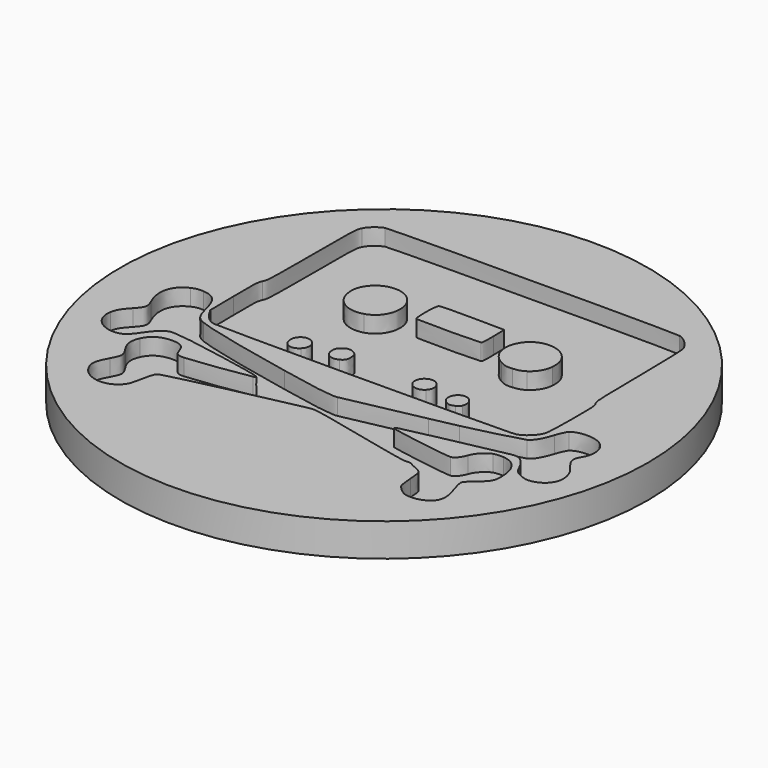
from build123d import *

# Parameters (mm, degrees)
SKETCH001_R  = 20
PAD_DEPTH    = 2.5
POCKET_DEPTH = 1.25


with BuildPart() as part:
    # Sketch001 (on DatumPlane) → Pad (new body)
    with BuildSketch(Plane.XY):
        Circle(SKETCH001_R)
    extrude(amount=-PAD_DEPTH)

    # Sketch (on DatumPlane) → Pocket (cut)
    with BuildSketch(Plane.XY):
        with BuildLine():
            add(Edge.make_bspline(
                [(11.22194, -12.11628), (10.977253, -12.018913), (10.570853, -11.65146), (10.43962, -11.408467)],
                knots=[0, 0, 0, 0, 1, 1, 1, 1], degree=3))
            add(Edge.make_bspline(
                [(10.43962, -11.408467), (10.389667, -11.31618), (10.323627, -10.84374), (10.2923, -10.3586)],
                knots=[0, 0, 0, 0, 1, 1, 1, 1], degree=3))
            add(Edge.make_bspline(
                [(10.2923, -10.3586), (10.238113, -9.51532), (10.224567, -9.46706), (9.99004, -9.279947)],
                knots=[0, 0, 0, 0, 1, 1, 1, 1], degree=3))
            add(Edge.make_bspline(
                [(9.99004, -9.279947), (9.854573, -9.171573), (9.640367, -9.06066), (9.51506, -9.03272)],
                knots=[0, 0, 0, 0, 1, 1, 1, 1], degree=3))
            add(Edge.make_bspline(
                [(9.51506, -9.03272), (9.388907, -9.005627), (9.244127, -8.931967), (9.19248, -8.87016)],
                knots=[0, 0, 0, 0, 1, 1, 1, 1], degree=3))
            add(Edge.make_bspline(
                [(9.19248, -8.87016), (9.13152, -8.7965), (8.988433, -8.771947), (8.781, -8.79904)],
                knots=[0, 0, 0, 0, 1, 1, 1, 1], degree=3))
            add(Edge.make_bspline(
                [(8.781, -8.79904), (8.563407, -8.828673), (7.66594, -8.655107), (5.926887, -8.247013)],
                knots=[0, 0, 0, 0, 1, 1, 1, 1], degree=3))
            add(Edge.make_bspline(
                [(5.926887, -8.247013), (1.838333, -7.28774), (0.61744, -7.024427), (0.257607, -7.024427)],
                knots=[0, 0, 0, 0, 1, 1, 1, 1], degree=3))
            add(Edge.make_bspline(
                [(0.257607, -7.024427), (-0.203827, -7.025273), (-9.183573, -9.03272), (-9.665327, -9.24354)],
                knots=[0, 0, 0, 0, 1, 1, 1, 1], degree=3))
            add(Edge.make_bspline(
                [(-9.665327, -9.24354), (-9.863447, -9.3299), (-9.92864, -9.51278), (-10.163167, -10.643927)],
                knots=[0, 0, 0, 0, 1, 1, 1, 1], degree=3))
            add(Edge.make_bspline(
                [(-10.163167, -10.643927), (-10.2817, -11.21458), (-10.351973, -11.368673), (-10.612747, -11.629447)],
                knots=[0, 0, 0, 0, 1, 1, 1, 1], degree=3))
            add(Edge.make_bspline(
                [(-10.612747, -11.629447), (-11.472113, -12.488813), (-13.003733, -12.181473), (-13.515967, -11.04694)],
                knots=[0, 0, 0, 0, 1, 1, 1, 1], degree=3))
            add(Edge.make_bspline(
                [(-13.515967, -11.04694), (-13.72594, -10.580427), (-13.66498, -10.240913), (-13.222173, -9.415413)],
                knots=[0, 0, 0, 0, 1, 1, 1, 1], degree=3))
            add(Edge.make_bspline(
                [(-13.222173, -9.415413), (-12.82932, -8.68474), (-12.833553, -8.596687), (-13.28652, -7.895647)],
                knots=[0, 0, 0, 0, 1, 1, 1, 1], degree=3))
            add(Edge.make_bspline(
                [(-13.28652, -7.895647), (-13.635347, -7.355473), (-13.678527, -6.874567), (-13.425373, -6.326773)],
                knots=[0, 0, 0, 0, 1, 1, 1, 1], degree=3))
            add(Edge.make_bspline(
                [(-13.425373, -6.326773), (-13.124807, -5.675687), (-12.564313, -5.353107), (-11.73204, -5.353107)],
                knots=[0, 0, 0, 0, 1, 1, 1, 1], degree=3))
            add(Edge.make_bspline(
                [(-11.73204, -5.353107), (-11.124133, -5.353107), (-10.79224, -5.579167), (-10.636453, -6.099867)],
                knots=[0, 0, 0, 0, 1, 1, 1, 1], degree=3))
            add(Edge.make_bspline(
                [(-10.636453, -6.099867), (-10.501833, -6.550293), (-10.358747, -6.646813), (-9.845667, -6.63496)],
                knots=[0, 0, 0, 0, 1, 1, 1, 1], degree=3))
            add(Edge.make_bspline(
                [(-9.845667, -6.63496), (-9.2403, -6.621413), (-5.93322, -6.164213), (-5.12804, -5.98218)],
                knots=[0, 0, 0, 0, 1, 1, 1, 1], degree=3))
            add(Edge.make_bspline(
                [(-5.12804, -5.98218), (-4.642053, -5.87296), (-5.149207, -5.737493), (-8.251393, -5.1516)],
                knots=[0, 0, 0, 0, 1, 1, 1, 1], degree=3))
            add(Edge.make_bspline(
                [(-8.251393, -5.1516), (-10.66016, -4.696093), (-12.185007, -4.479347), (-12.52452, -4.542847)],
                knots=[0, 0, 0, 0, 1, 1, 1, 1], degree=3))
            add(Edge.make_bspline(
                [(-12.52452, -4.542847), (-12.924993, -4.6182), (-13.35256, -5.005973), (-13.83008, -5.727333)],
                knots=[0, 0, 0, 0, 1, 1, 1, 1], degree=3))
            add(Edge.make_bspline(
                [(-13.83008, -5.727333), (-14.305907, -6.447), (-14.63526, -6.661207), (-15.24232, -6.646813)],
                knots=[0, 0, 0, 0, 1, 1, 1, 1], degree=3))
            add(Edge.make_bspline(
                [(-15.24232, -6.646813), (-16.302347, -6.62226), (-17.079587, -5.75612), (-16.897553, -4.802773)],
                knots=[0, 0, 0, 0, 1, 1, 1, 1], degree=3))
            add(Edge.make_bspline(
                [(-16.897553, -4.802773), (-16.808653, -4.34134), (-16.69266, -4.14576), (-16.15926, -3.56664)],
                knots=[0, 0, 0, 0, 1, 1, 1, 1], degree=3))
            add(Edge.make_bspline(
                [(-16.15926, -3.56664), (-15.645333, -3.006147), (-15.60554, -2.823267), (-15.870547, -2.23822)],
                knots=[0, 0, 0, 0, 1, 1, 1, 1], degree=3))
            add(Edge.make_bspline(
                [(-15.870547, -2.23822), (-16.452207, -0.956367), (-16.186353, 0.072333), (-15.14326, 0.577793)],
                knots=[0, 0, 0, 0, 1, 1, 1, 1], degree=3))
            add(Edge.make_bspline(
                [(-15.14326, 0.577793), (-14.841847, 0.72342), (-14.654733, 0.754747), (-14.2568, 0.72596)],
                knots=[0, 0, 0, 0, 1, 1, 1, 1], degree=3))
            add(Edge.make_bspline(
                [(-14.2568, 0.72596), (-13.40844, 0.665), (-13.04268, 0.265373), (-12.744653, -0.924193)],
                knots=[0, 0, 0, 0, 1, 1, 1, 1], degree=3))
            add(Edge.make_bspline(
                [(-12.744653, -0.924193), (-12.498273, -1.903787), (-12.334867, -2.1544), (-11.788767, -2.389773)],
                knots=[0, 0, 0, 0, 1, 1, 1, 1], degree=3))
            add(Edge.make_bspline(
                [(-11.788767, -2.389773), (-10.996287, -2.730133), (-8.485073, -3.33296), (-4.187393, -4.2118)],
                knots=[0, 0, 0, 0, 1, 1, 1, 1], degree=3))
            add(Edge.make_bspline(
                [(-4.187393, -4.2118), (-1.195273, -4.82394), (-0.016713, -5.00682), (0.400693, -4.922153)],
                knots=[0, 0, 0, 0, 1, 1, 1, 1], degree=3))
            add(Edge.make_bspline(
                [(0.400693, -4.922153), (3.661207, -4.264293), (4.85162, -4.019607), (6.311273, -3.705493)],
                knots=[0, 0, 0, 0, 1, 1, 1, 1], degree=3))
            add(Edge.make_bspline(
                [(6.311273, -3.705493), (7.266313, -3.5006), (8.180713, -3.30756), (8.343273, -3.276233)],
                knots=[0, 0, 0, 0, 1, 1, 1, 1], degree=3))
            add(Edge.make_bspline(
                [(8.343273, -3.276233), (9.178933, -3.117907), (12.348853, -2.295793), (12.57322, -2.1798)],
                knots=[0, 0, 0, 0, 1, 1, 1, 1], degree=3))
            add(Edge.make_bspline(
                [(12.57322, -2.1798), (12.916967, -2.002), (13.198907, -1.53718), (13.46984, -0.699827)],
                knots=[0, 0, 0, 0, 1, 1, 1, 1], degree=3))
            add(Edge.make_bspline(
                [(13.46984, -0.699827), (13.59176, -0.321367), (13.772947, 0.063867), (13.872007, 0.155307)],
                knots=[0, 0, 0, 0, 1, 1, 1, 1], degree=3))
            add(Edge.make_bspline(
                [(13.872007, 0.155307), (14.319893, 0.57356), (15.531473, 0.600653), (16.127527, 0.206107)],
                knots=[0, 0, 0, 0, 1, 1, 1, 1], degree=3))
            add(Edge.make_bspline(
                [(16.127527, 0.206107), (16.785387, -0.22908), (16.942867, -1.147713), (16.486513, -1.881773)],
                knots=[0, 0, 0, 0, 1, 1, 1, 1], degree=3))
            add(Edge.make_bspline(
                [(16.486513, -1.881773), (16.16732, -2.3957), (16.24098, -2.731827), (16.818407, -3.39138)],
                knots=[0, 0, 0, 0, 1, 1, 1, 1], degree=3))
            add(Edge.make_bspline(
                [(16.818407, -3.39138), (17.8361, -4.553853), (17.398373, -5.983873), (15.965813, -6.176067)],
                knots=[0, 0, 0, 0, 1, 1, 1, 1], degree=3))
            add(Edge.make_bspline(
                [(15.965813, -6.176067), (15.706733, -6.21078), (15.518773, -6.1676), (15.152167, -5.988107)],
                knots=[0, 0, 0, 0, 1, 1, 1, 1], degree=3))
            add(Edge.make_bspline(
                [(15.152167, -5.988107), (14.750847, -5.792527), (14.64586, -5.690927), (14.486687, -5.348027)],
                knots=[0, 0, 0, 0, 1, 1, 1, 1], degree=3))
            add(Edge.make_bspline(
                [(14.486687, -5.348027), (14.22168, -4.77568), (13.900793, -4.380287), (13.600227, -4.255827)],
                knots=[0, 0, 0, 0, 1, 1, 1, 1], degree=3))
            add(Edge.make_bspline(
                [(13.600227, -4.255827), (13.379247, -4.164387), (13.202293, -4.180473), (12.346313, -4.36928)],
                knots=[0, 0, 0, 0, 1, 1, 1, 1], degree=3))
            add(Edge.make_bspline(
                [(12.346313, -4.36928), (11.797673, -4.490353), (10.570007, -4.7452), (9.617507, -4.934853)],
                knots=[0, 0, 0, 0, 1, 1, 1, 1], degree=3))
            add(Edge.make_bspline(
                [(9.617507, -4.934853), (8.665007, -5.124507), (7.864907, -5.292147), (7.839507, -5.308233)],
                knots=[0, 0, 0, 0, 1, 1, 1, 1], degree=3))
            add(Edge.make_bspline(
                [(7.839507, -5.308233), (7.814107, -5.323473), (7.29764, -5.439467), (6.692273, -5.56562)],
                knots=[0, 0, 0, 0, 1, 1, 1, 1], degree=3))
            add(Edge.make_bspline(
                [(6.692273, -5.56562), (5.5044, -5.813693), (5.41296, -5.843327), (5.520487, -5.950853)],
                knots=[0, 0, 0, 0, 1, 1, 1, 1], degree=3))
            add(Edge.make_bspline(
                [(5.520487, -5.950853), (5.639867, -6.070233), (10.070473, -6.763653), (10.417607, -6.717087)],
                knots=[0, 0, 0, 0, 1, 1, 1, 1], degree=3))
            add(Edge.make_bspline(
                [(10.417607, -6.717087), (10.666527, -6.684067), (10.921373, -6.381807), (11.090707, -5.920373)],
                knots=[0, 0, 0, 0, 1, 1, 1, 1], degree=3))
            add(Edge.make_bspline(
                [(11.090707, -5.920373), (11.26512, -5.442007), (11.713007, -4.97634), (12.129567, -4.83918)],
                knots=[0, 0, 0, 0, 1, 1, 1, 1], degree=3))
            add(Edge.make_bspline(
                [(12.129567, -4.83918), (12.292973, -4.784993), (12.6291, -4.7579), (12.876327, -4.77822)],
                knots=[0, 0, 0, 0, 1, 1, 1, 1], degree=3))
            add(Edge.make_bspline(
                [(12.876327, -4.77822), (13.743313, -4.850187), (14.26486, -5.501273), (14.336827, -6.600247)],
                knots=[0, 0, 0, 0, 1, 1, 1, 1], degree=3))
            add(Edge.make_bspline(
                [(14.336827, -6.600247), (14.390167, -7.413047), (14.283487, -7.63826), (13.580753, -8.1996)],
                knots=[0, 0, 0, 0, 1, 1, 1, 1], degree=3))
            add(Edge.make_bspline(
                [(13.580753, -8.1996), (13.262407, -8.452753), (12.978773, -8.75078), (12.95168, -8.860847)],
                knots=[0, 0, 0, 0, 1, 1, 1, 1], degree=3))
            add(Edge.make_bspline(
                [(12.95168, -8.860847), (12.9212, -8.981073), (13.008407, -9.371387), (13.171813, -9.847213)],
                knots=[0, 0, 0, 0, 1, 1, 1, 1], degree=3))
            add(Edge.make_bspline(
                [(13.171813, -9.847213), (13.585833, -11.052867), (13.452907, -11.615053), (12.65958, -12.020607)],
                knots=[0, 0, 0, 0, 1, 1, 1, 1], degree=3))
            add(Edge.make_bspline(
                [(12.65958, -12.020607), (12.259107, -12.224653), (11.60548, -12.26868), (11.22194, -12.11628)],
                knots=[0, 0, 0, 0, 1, 1, 1, 1], degree=3))
        make_face()
        with BuildLine():
            add(Edge.make_bspline(
                [(-11.232507, -2.138313), (-11.614353, -2.020627), (-11.96318, -1.7226), (-12.20956, -1.304347)],
                knots=[0, 0, 0, 0, 1, 1, 1, 1], degree=3))
            add(Edge.make_bspline(
                [(-12.20956, -1.304347), (-12.442393, -0.908107)],
                knots=[0, 0, 5.428158, 5.428158], degree=1))
            add(Edge.make_bspline(
                [(-12.442393, -0.908107), (-12.46864, 1.333867)],
                knots=[0, 0, 26.481815, 26.481815], degree=1))
            add(Edge.make_bspline(
                [(-12.46864, 1.333867), (-12.493193, 3.409893), (-12.483033, 3.60124), (-12.33148, 3.9162)],
                knots=[0, 0, 0, 0, 1, 1, 1, 1], degree=3))
            add(Edge.make_bspline(
                [(-12.33148, 3.9162), (-12.175693, 4.23878), (-12.167227, 4.475), (-12.167227, 8.378133)],
                knots=[0, 0, 0, 0, 1, 1, 1, 1], degree=3))
            add(Edge.make_bspline(
                [(-12.167227, 8.378133), (-12.167227, 12.426893), (-12.16384, 12.50648), (-11.984347, 12.87732)],
                knots=[0, 0, 0, 0, 1, 1, 1, 1], degree=3))
            add(Edge.make_bspline(
                [(-11.984347, 12.87732), (-11.804853, 13.247313), (-11.39168, 13.605453), (-10.953953, 13.769707)],
                knots=[0, 0, 0, 0, 1, 1, 1, 1], degree=3))
            add(Edge.make_bspline(
                [(-10.953953, 13.769707), (-10.617827, 13.895013), (10.8511, 13.988993), (11.304913, 13.866227)],
                knots=[0, 0, 0, 0, 1, 1, 1, 1], degree=3))
            add(Edge.make_bspline(
                [(11.304913, 13.866227), (11.751107, 13.746847), (12.35732, 13.157567), (12.49448, 12.710527)],
                knots=[0, 0, 0, 0, 1, 1, 1, 1], degree=3))
            add(Edge.make_bspline(
                [(12.49448, 12.710527), (12.56306, 12.487853), (12.607087, 11.10186), (12.63418, 8.32056)],
                knots=[0, 0, 0, 0, 1, 1, 1, 1], degree=3))
            add(Edge.make_bspline(
                [(12.63418, 8.32056), (12.67228, 4.49278), (12.683287, 4.24132), (12.83738, 3.991553)],
                knots=[0, 0, 0, 0, 1, 1, 1, 1], degree=3))
            add(Edge.make_bspline(
                [(12.83738, 3.991553), (12.988087, 3.74856), (13.000787, 3.557213), (12.9974, 1.620887)],
                knots=[0, 0, 0, 0, 1, 1, 1, 1], degree=3))
            add(Edge.make_bspline(
                [(12.9974, 1.620887), (12.99486, 0.2586), (12.957607, -0.604153), (12.89326, -0.82344)],
                knots=[0, 0, 0, 0, 1, 1, 1, 1], degree=3))
            add(Edge.make_bspline(
                [(12.89326, -0.82344), (12.742553, -1.333133), (12.11856, -1.91818), (11.59786, -2.038407)],
                knots=[0, 0, 0, 0, 1, 1, 1, 1], degree=3))
            add(Edge.make_bspline(
                [(11.59786, -2.038407), (11.09494, -2.1544), (-10.86844, -2.25092), (-11.232507, -2.138313)],
                knots=[0, 0, 0, 0, 1, 1, 1, 1], degree=3))
        make_face()
        with BuildLine():
            add(Edge.make_bspline(
                [(-5.19662, -1.380547), (-4.758047, -0.941973), (-4.97564, -0.256173), (-5.59032, -0.138487)],
                knots=[0, 0, 0, 0, 1, 1, 1, 1], degree=3))
            add(Edge.make_bspline(
                [(-5.59032, -0.138487), (-5.980633, -0.06398), (-6.388727, -0.431433), (-6.388727, -0.857307)],
                knots=[0, 0, 0, 0, 1, 1, 1, 1], degree=3))
            add(Edge.make_bspline(
                [(-6.388727, -0.857307), (-6.388727, -1.556653), (-5.682607, -1.866533), (-5.19662, -1.380547)],
                knots=[0, 0, 0, 0, 1, 1, 1, 1], degree=3))
        make_face(mode=Mode.SUBTRACT)
        with BuildLine():
            add(Edge.make_bspline(
                [(6.559347, -1.419493), (6.69058, -1.350913), (6.82266, -1.234073), (6.851447, -1.15872)],
                knots=[0, 0, 0, 0, 1, 1, 1, 1], degree=3))
            add(Edge.make_bspline(
                [(6.851447, -1.15872), (7.13508, -0.418733), (6.339213, 0.21796), (5.770253, -0.294273)],
                knots=[0, 0, 0, 0, 1, 1, 1, 1], degree=3))
            add(Edge.make_bspline(
                [(5.770253, -0.294273), (5.414653, -0.614313), (5.465453, -1.19174), (5.86762, -1.41018)],
                knots=[0, 0, 0, 0, 1, 1, 1, 1], degree=3))
            add(Edge.make_bspline(
                [(5.86762, -1.41018), (6.16226, -1.5702), (6.26386, -1.571893), (6.559347, -1.419493)],
                knots=[0, 0, 0, 0, 1, 1, 1, 1], degree=3))
        make_face(mode=Mode.SUBTRACT)
        with BuildLine():
            add(Edge.make_bspline(
                [(-2.499987, -1.080827), (-2.233287, -0.94282), (-2.155393, -0.79804), (-2.155393, -0.44244)],
                knots=[0, 0, 0, 0, 1, 1, 1, 1], degree=3))
            add(Edge.make_bspline(
                [(-2.155393, -0.44244), (-2.155393, -0.08684), (-2.233287, 0.05794), (-2.499987, 0.195947)],
                knots=[0, 0, 0, 0, 1, 1, 1, 1], degree=3))
            add(Edge.make_bspline(
                [(-2.499987, 0.195947), (-2.84204, 0.3729), (-3.03762, 0.35004), (-3.333953, 0.100273)],
                knots=[0, 0, 0, 0, 1, 1, 1, 1], degree=3))
            add(Edge.make_bspline(
                [(-3.333953, 0.100273), (-3.539693, -0.072447), (-3.59388, -0.185053), (-3.592187, -0.428893)],
                knots=[0, 0, 0, 0, 1, 1, 1, 1], degree=3))
            add(Edge.make_bspline(
                [(-3.592187, -0.428893), (-3.58626, -1.05204), (-3.056247, -1.367847), (-2.499987, -1.080827)],
                knots=[0, 0, 0, 0, 1, 1, 1, 1], degree=3))
        make_face(mode=Mode.SUBTRACT)
        with BuildLine():
            add(Edge.make_bspline(
                [(3.902507, -0.91234), (4.474007, -0.339993), (3.780587, 0.600653), (3.066847, 0.221347)],
                knots=[0, 0, 0, 0, 1, 1, 1, 1], degree=3))
            add(Edge.make_bspline(
                [(3.066847, 0.221347), (2.391207, -0.139333), (2.627427, -1.119773), (3.390273, -1.119773)],
                knots=[0, 0, 0, 0, 1, 1, 1, 1], degree=3))
            add(Edge.make_bspline(
                [(3.390273, -1.119773), (3.600247, -1.119773), (3.758573, -1.055427), (3.902507, -0.91234)],
                knots=[0, 0, 0, 0, 1, 1, 1, 1], degree=3))
        make_face(mode=Mode.SUBTRACT)
        with BuildLine():
            add(Edge.make_bspline(
                [(-5.027287, 4.395413), (-3.499053, 4.85346), (-3.2713, 7.00738), (-4.664913, 7.823567)],
                knots=[0, 0, 0, 0, 1, 1, 1, 1], degree=3))
            add(Edge.make_bspline(
                [(-4.664913, 7.823567), (-5.418447, 8.265527), (-6.459847, 8.085187), (-7.026267, 7.41378)],
                knots=[0, 0, 0, 0, 1, 1, 1, 1], degree=3))
            add(Edge.make_bspline(
                [(-7.026267, 7.41378), (-7.38864, 6.98452), (-7.511407, 6.61114), (-7.47246, 6.06504)],
                knots=[0, 0, 0, 0, 1, 1, 1, 1], degree=3))
            add(Edge.make_bspline(
                [(-7.47246, 6.06504), (-7.382713, 4.823827), (-6.22786, 4.03558), (-5.027287, 4.395413)],
                knots=[0, 0, 0, 0, 1, 1, 1, 1], degree=3))
        make_face(mode=Mode.SUBTRACT)
        with BuildLine():
            add(Edge.make_bspline(
                [(7.074967, 4.671427), (7.575347, 5.001627), (7.860673, 5.486767), (7.903853, 6.0752)],
                knots=[0, 0, 0, 0, 1, 1, 1, 1], degree=3))
            add(Edge.make_bspline(
                [(7.903853, 6.0752), (7.947033, 6.67464), (7.817493, 7.095433), (7.466973, 7.494213)],
                knots=[0, 0, 0, 0, 1, 1, 1, 1], degree=3))
            add(Edge.make_bspline(
                [(7.466973, 7.494213), (6.75154, 8.309553), (5.34692, 8.316327), (4.665353, 7.506913)],
                knots=[0, 0, 0, 0, 1, 1, 1, 1], degree=3))
            add(Edge.make_bspline(
                [(4.665353, 7.506913), (3.854247, 6.5451), (4.109093, 5.190433), (5.210607, 4.61216)],
                knots=[0, 0, 0, 0, 1, 1, 1, 1], degree=3))
            add(Edge.make_bspline(
                [(5.210607, 4.61216), (5.619547, 4.397107), (5.74062, 4.372553), (6.20798, 4.408113)],
                knots=[0, 0, 0, 0, 1, 1, 1, 1], degree=3))
            add(Edge.make_bspline(
                [(6.20798, 4.408113), (6.59152, 4.437747), (6.83282, 4.51056), (7.074967, 4.671427)],
                knots=[0, 0, 0, 0, 1, 1, 1, 1], degree=3))
        make_face(mode=Mode.SUBTRACT)
        with BuildLine():
            add(Edge.make_bspline(
                [(2.65198, 5.86946), (2.734107, 5.895707), (2.754427, 6.15648), (2.736647, 6.943033)],
                knots=[0, 0, 0, 0, 1, 1, 1, 1], degree=3))
            add(Edge.make_bspline(
                [(2.736647, 6.943033), (2.71294, 7.981893)],
                knots=[0, 0, 12.273194, 12.273194], degree=1))
            add(Edge.make_bspline(
                [(2.71294, 7.981893), (0.3101, 8.004753)],
                knots=[0, 0, 28.381284, 28.381284], degree=1))
            add(Edge.make_bspline(
                [(0.3101, 8.004753), (-1.3917, 8.019993), (-2.126607, 7.998827), (-2.208733, 7.930247)],
                knots=[0, 0, 0, 0, 1, 1, 1, 1], degree=3))
            add(Edge.make_bspline(
                [(-2.208733, 7.930247), (-2.352667, 7.810867), (-2.375527, 5.992227), (-2.234133, 5.850833)],
                knots=[0, 0, 0, 0, 1, 1, 1, 1], degree=3))
            add(Edge.make_bspline(
                [(-2.234133, 5.850833), (-2.149467, 5.766167), (2.378507, 5.7831), (2.65198, 5.86946)],
                knots=[0, 0, 0, 0, 1, 1, 1, 1], degree=3))
        make_face(mode=Mode.SUBTRACT)
    extrude(amount=-POCKET_DEPTH, mode=Mode.SUBTRACT)


solid = part.part
